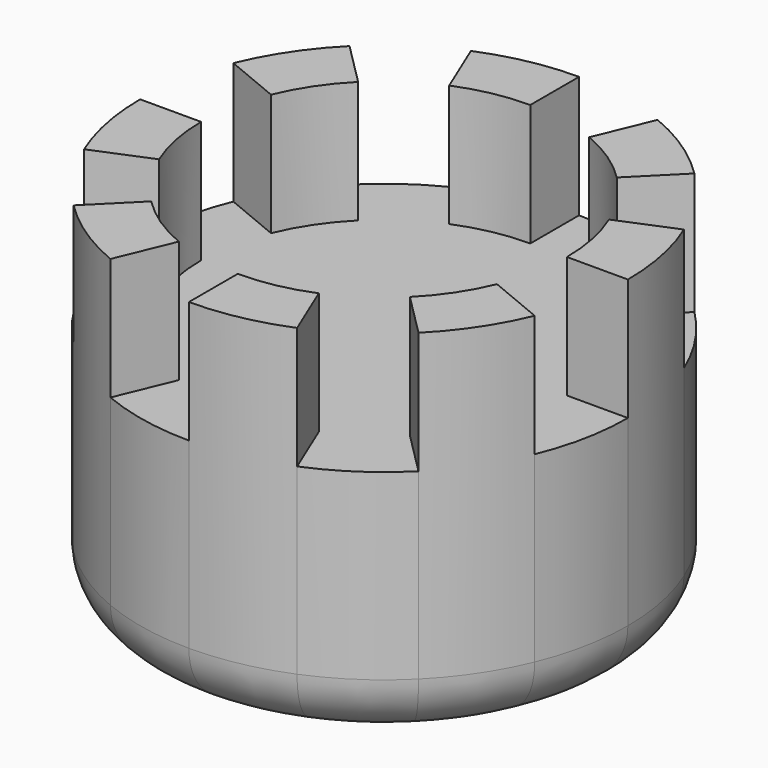
from build123d import *

# Parameters (mm, degrees)
F1_DEPTH = 5.08
F2_DEPTH = 7.62
F3_R     = 1.27


with BuildPart() as f1:
    # F0 (on Top) → F1 (new body)
    with BuildSketch(Plane.XY):
        with BuildLine():
            ThreePointArc((4.6933080252, -1.9440318364), (4.9823892244, -0.9910588358), (5.08, 0))
            Line((5.08, 0), (3.81, 0))
            ThreePointArc((3.81, 0), (3.7367919183, 0.7432941269), (3.5199810189, 1.4580238773))
            Line((3.5199810189, 1.4580238773), (4.6933080252, 1.9440318364))
            ThreePointArc((4.6933080252, 1.9440318364), (4.2238656305, 2.8222967837), (3.5921024484, 3.5921024484))
            Line((3.5921024484, 3.5921024484), (2.6940768363, 2.6940768363))
            ThreePointArc((2.6940768363, 2.6940768363), (2.1167225878, 3.1678992229), (1.4580238773, 3.5199810189))
            Line((1.4580238773, 3.5199810189), (1.9440318364, 4.6933080252))
            ThreePointArc((1.9440318364, 4.6933080252), (0.9910588358, 4.9823892244), (0, 5.08))
            Line((0, 5.08), (0, 3.81))
            ThreePointArc((0, 3.81), (-0.7432941269, 3.7367919183), (-1.4580238773, 3.5199810189))
            Line((-1.4580238773, 3.5199810189), (-1.9440318364, 4.6933080252))
            ThreePointArc((-1.9440318364, 4.6933080252), (-2.8222967837, 4.2238656305), (-3.5921024484, 3.5921024484))
            Line((-3.5921024484, 3.5921024484), (-2.6940768363, 2.6940768363))
            ThreePointArc((-2.6940768363, 2.6940768363), (-3.1678992229, 2.1167225878), (-3.5199810189, 1.4580238773))
            Line((-3.5199810189, 1.4580238773), (-4.6933080252, 1.9440318364))
            ThreePointArc((-4.6933080252, 1.9440318364), (-4.9823892244, 0.9910588358), (-5.08, 0))
            Line((-5.08, 0), (-3.81, 0))
            ThreePointArc((-3.81, 0), (-3.7367919183, -0.7432941269), (-3.5199810189, -1.4580238773))
            Line((-3.5199810189, -1.4580238773), (-4.6933080252, -1.9440318364))
            ThreePointArc((-4.6933080252, -1.9440318364), (-4.2238656305, -2.8222967837), (-3.5921024484, -3.5921024484))
            Line((-3.5921024484, -3.5921024484), (-2.6940768363, -2.6940768363))
            ThreePointArc((-2.6940768363, -2.6940768363), (-2.1167225878, -3.1678992229), (-1.4580238773, -3.5199810189))
            Line((-1.4580238773, -3.5199810189), (-1.9440318364, -4.6933080252))
            ThreePointArc((-1.9440318364, -4.6933080252), (-0.9910588358, -4.9823892244), (0, -5.08))
            Line((0, -5.08), (0, -3.81))
            ThreePointArc((0, -3.81), (0.7432941269, -3.7367919183), (1.4580238773, -3.5199810189))
            Line((1.4580238773, -3.5199810189), (1.9440318364, -4.6933080252))
            ThreePointArc((1.9440318364, -4.6933080252), (2.8222967837, -4.2238656305), (3.5921024484, -3.5921024484))
            Line((3.5921024484, -3.5921024484), (2.6940768363, -2.6940768363))
            ThreePointArc((2.6940768363, -2.6940768363), (3.1678992229, -2.1167225878), (3.5199810189, -1.4580238773))
            Line((3.5199810189, -1.4580238773), (4.6933080252, -1.9440318364))
        make_face()
    extrude(amount=F1_DEPTH)

    # F0 (on Top) → F2 (join)
    with BuildSketch(Plane.XY):
        with BuildLine():
            Line((0, 3.81), (0, 5.08))
            ThreePointArc((0, 5.08), (-0.9910588358, 4.9823892244), (-1.9440318364, 4.6933080252))
            Line((-1.9440318364, 4.6933080252), (-1.4580238773, 3.5199810189))
            ThreePointArc((-1.4580238773, 3.5199810189), (-0.7432941269, 3.7367919183), (0, 3.81))
        make_face()
        with BuildLine():
            Line((2.6940768363, 2.6940768363), (3.5921024484, 3.5921024484))
            ThreePointArc((3.5921024484, 3.5921024484), (2.8222967837, 4.2238656305), (1.9440318364, 4.6933080252))
            Line((1.9440318364, 4.6933080252), (1.4580238773, 3.5199810189))
            ThreePointArc((1.4580238773, 3.5199810189), (2.1167225878, 3.1678992229), (2.6940768363, 2.6940768363))
        make_face()
        with BuildLine():
            Line((3.81, 0), (5.08, 0))
            ThreePointArc((5.08, 0), (4.9823892244, 0.9910588358), (4.6933080252, 1.9440318364))
            Line((4.6933080252, 1.9440318364), (3.5199810189, 1.4580238773))
            ThreePointArc((3.5199810189, 1.4580238773), (3.7367919183, 0.7432941269), (3.81, 0))
        make_face()
        with BuildLine():
            Line((-2.6940768363, 2.6940768363), (-3.5921024484, 3.5921024484))
            ThreePointArc((-3.5921024484, 3.5921024484), (-4.2238656305, 2.8222967837), (-4.6933080252, 1.9440318364))
            Line((-4.6933080252, 1.9440318364), (-3.5199810189, 1.4580238773))
            ThreePointArc((-3.5199810189, 1.4580238773), (-3.1678992229, 2.1167225878), (-2.6940768363, 2.6940768363))
        make_face()
        with BuildLine():
            ThreePointArc((-5.08, 0), (-4.9823892244, -0.9910588358), (-4.6933080252, -1.9440318364))
            Line((-4.6933080252, -1.9440318364), (-3.5199810189, -1.4580238773))
            ThreePointArc((-3.5199810189, -1.4580238773), (-3.7367919183, -0.7432941269), (-3.81, 0))
            Line((-3.81, 0), (-5.08, 0))
        make_face()
        with BuildLine():
            ThreePointArc((-3.5921024484, -3.5921024484), (-2.8222967837, -4.2238656305), (-1.9440318364, -4.6933080252))
            Line((-1.9440318364, -4.6933080252), (-1.4580238773, -3.5199810189))
            ThreePointArc((-1.4580238773, -3.5199810189), (-2.1167225878, -3.1678992229), (-2.6940768363, -2.6940768363))
            Line((-2.6940768363, -2.6940768363), (-3.5921024484, -3.5921024484))
        make_face()
        with BuildLine():
            ThreePointArc((0, -5.08), (0.9910588358, -4.9823892244), (1.9440318364, -4.6933080252))
            Line((1.9440318364, -4.6933080252), (1.4580238773, -3.5199810189))
            ThreePointArc((1.4580238773, -3.5199810189), (0.7432941269, -3.7367919183), (0, -3.81))
            Line((0, -3.81), (0, -5.08))
        make_face()
        with BuildLine():
            ThreePointArc((3.5921024484, -3.5921024484), (4.2238656305, -2.8222967837), (4.6933080252, -1.9440318364))
            Line((4.6933080252, -1.9440318364), (3.5199810189, -1.4580238773))
            ThreePointArc((3.5199810189, -1.4580238773), (3.1678992229, -2.1167225878), (2.6940768363, -2.6940768363))
            Line((2.6940768363, -2.6940768363), (3.5921024484, -3.5921024484))
        make_face()
    extrude(amount=F2_DEPTH)

    # F3
    f3_edges = [f1.edges().sort_by_distance(p)[0] for p in [
        (-1.944032, -4.693308, 0),
    ]]
    fillet(f3_edges, radius=F3_R)


solid = f1.part
